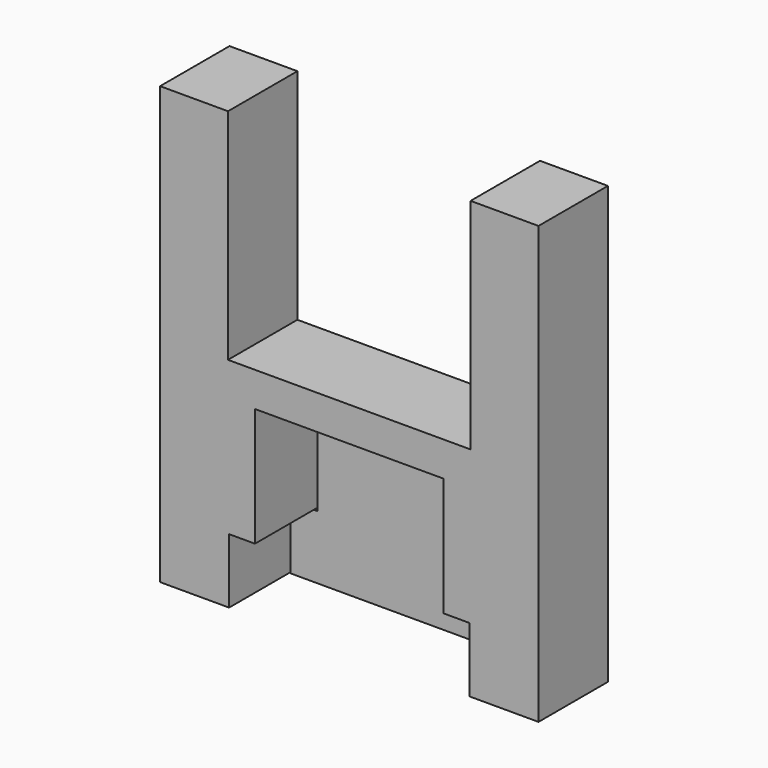
from build123d import *

# Parameters (mm, degrees)
F1_DEPTH = 19.05
F3_DEPTH = 2.54


with BuildPart() as f1:
    # F0 (on Front) → F1 (new body)
    with BuildSketch(Plane.XZ):
        Polygon((-28.172508, 48.053343), (-43.082308, 48.053343), (-43.082308, -47.816627), (-27.932484, -47.816627), (-27.932484, -33.613667), (-22.251301, -33.613667), (-22.251301, -7.574911), (19.173995, -7.574911), (19.173995, -33.613667), (24.863595, -33.613667), (24.863595, -47.816627), (40.001995, -47.816627), (40.001995, 48.053343), (25.091892, 48.053343), (25.091892, 0), (-28.172508, 0), align=None)
    extrude(amount=F1_DEPTH)


with BuildPart() as f3:
    # F2 (on Front) → F3 (new body)
    with BuildSketch(Plane.XZ):
        Polygon((-27.695769, -33.850387), (-27.695769, -47.816627), (24.855178, -47.816627), (24.855178, -33.613667), (19.173995, -33.613667), (19.173995, -8.048343), (-21.77787, -8.048343), (-21.77787, -33.850387), align=None)
    extrude(amount=F3_DEPTH)


solid = Compound([f1.part, f3.part])
